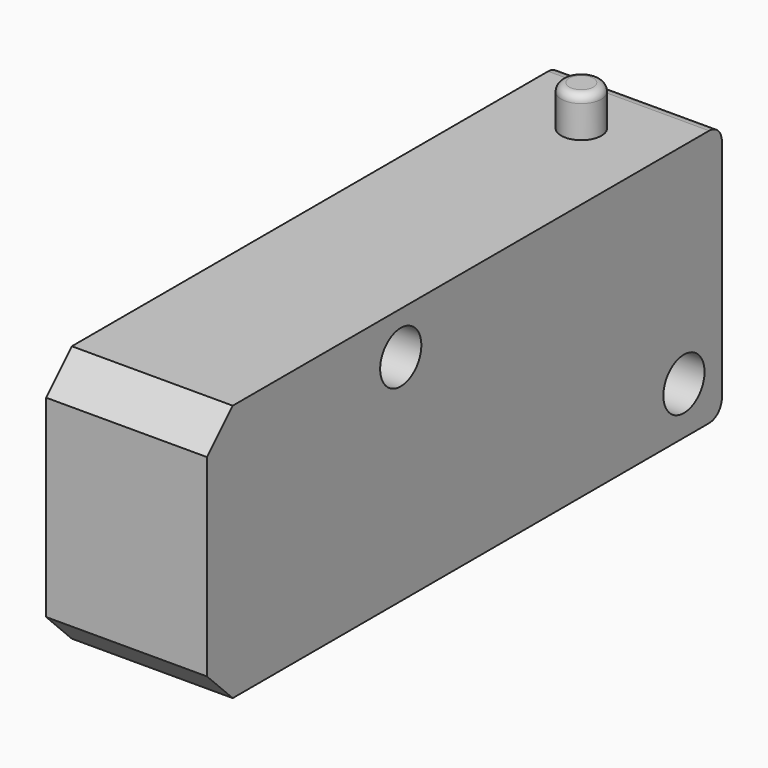
from build123d import *

# Parameters (mm, degrees)
F0_W     = 10
F0_H     = 40
F1_DEPTH = 16
F3_R     = 1.25
F4_DEPTH = 2.5
F5_R     = 0.5
F6_R     = 1
F7_SIZE  = 2
F8_R     = 1.6
F9_DEPTH = 10.001


with BuildPart() as f1:
    # F0 (on Top) → F1 (new body)
    with BuildSketch(Plane.XY):
        Rectangle(F0_W, F0_H)
    extrude(amount=F1_DEPTH)

    # F3 (on face) → F4 (join)
    with BuildSketch(Plane.XY.offset(16)):
        with Locations((0, 15.33)):
            Circle(F3_R)
    extrude(amount=F4_DEPTH)

    # F5
    f5_edges = [f1.edges().sort_by_distance(p)[0] for p in [
        (-1.25, 15.33, 18.5),
    ]]
    fillet(f5_edges, radius=F5_R)

    # F6
    f6_edges = [f1.edges().sort_by_distance(p)[0] for p in [
        (0, 20, 16),
        (0, 20, 0),
    ]]
    fillet(f6_edges, radius=F6_R)

    # F7
    f7_edges = [f1.edges().sort_by_distance(p)[0] for p in [
        (0, -20, 0),
        (0, -20, 16),
    ]]
    chamfer(f7_edges, length=F7_SIZE)

    # F8 (on face) → F9 (cut, through all)
    with BuildSketch(Plane(origin=(-5, 0, 0), x_dir=(0, -1, 0), z_dir=(-1, 0, 0))):
        with Locations((-17.05, 2.95)):
            Circle(F8_R)
        with Locations((4.95, 13.35)):
            Circle(F8_R)
    extrude(amount=-F9_DEPTH, mode=Mode.SUBTRACT)


solid = f1.part
